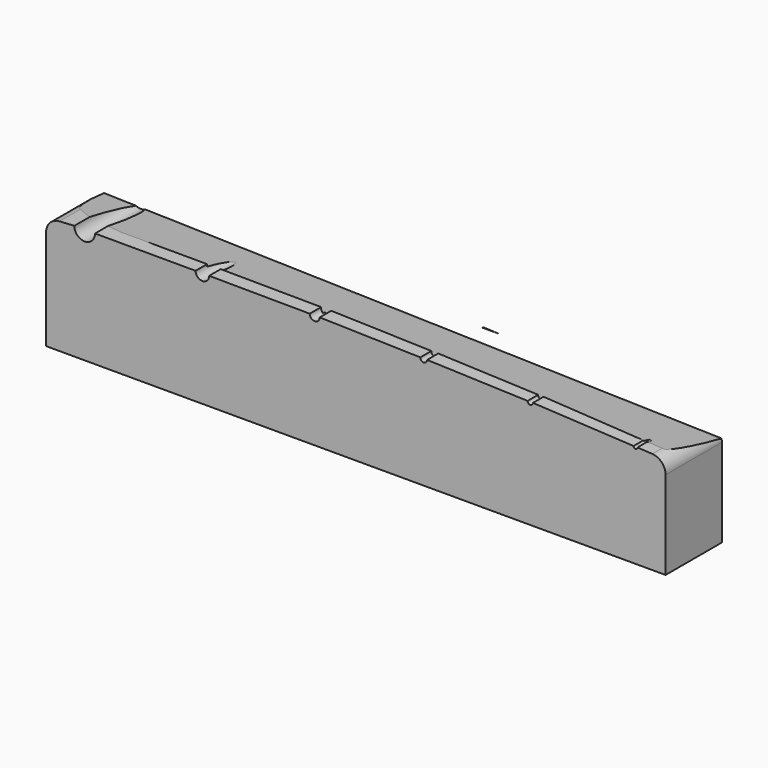
from build123d import *

# Parameters (mm, degrees)
F1_DEPTH = 5
F2_R     = 1
F4_W     = 64.1363480276
F4_H     = 8
F5_DEPTH = 1


with BuildPart() as f1:
    # F0 (on Front) → F1 (new body)
    with BuildSketch(Plane.XZ):
        with BuildLine():
            Line((-22, 0), (0, 0))
            Line((0, 0), (22, 0))
            Line((22, 0), (22, 7.2071))
            Line((22, 7.2071), (19.9997, 7.3237253161))
            ThreePointArc((19.9997, 7.3237253161), (19.86, 7.1840253161), (19.7203, 7.3237253161))
            Line((19.7203, 7.3237253161), (12.5805, 7.6967855868))
            ThreePointArc((12.5805, 7.6967855868), (12.39, 7.5062855868), (12.1995, 7.6967855868))
            Line((12.1995, 7.6967855868), (5.0613, 7.9420773015))
            ThreePointArc((5.0613, 7.9420773015), (4.82, 7.7007773015), (4.5787, 7.9420773015))
            Line((4.5787, 7.9420773015), (-2.5644, 8.117998201))
            ThreePointArc((-2.5644, 8.117998201), (-2.92, 7.762398201), (-3.2756, 8.117998201))
            Line((-3.2756, 8.117998201), (-10.4174, 8.1633853138))
            ThreePointArc((-10.4174, 8.1633853138), (-10.9, 7.6807853138), (-11.3826, 8.1633853138))
            Line((-11.3826, 8.1633853138), (-18.5234, 8.173969372))
            ThreePointArc((-18.5234, 8.173969372), (-19.26, 7.437369372), (-19.9966, 8.173969372))
            Line((-19.9966, 8.173969372), (-22, 8.0581))
            Line((-22, 8.0581), (-22, 0))
        make_face()
    extrude(amount=-F1_DEPTH)

    # F2
    f2_edges = [f1.edges().sort_by_distance(p)[0] for p in [
        (22, 2.5, 7.2071),
        (-22, 2.5, 8.0581),
    ]]
    fillet(f2_edges, radius=F2_R)

    # F4 (on face) → F5 (cut)
    with BuildSketch(Plane(origin=(0.2133288598, 1.5278099899, 8.6620144765), x_dir=(0.9997060085, -0.0042116127, -0.023878002), z_dir=(0.0242465804, 0.1736481777, 0.9845092248))):
        with Locations((5.2079893117, 3.5908480534)):
            Rectangle(F4_W, F4_H)
    extrude(amount=-F5_DEPTH, mode=Mode.SUBTRACT)


solid = f1.part
